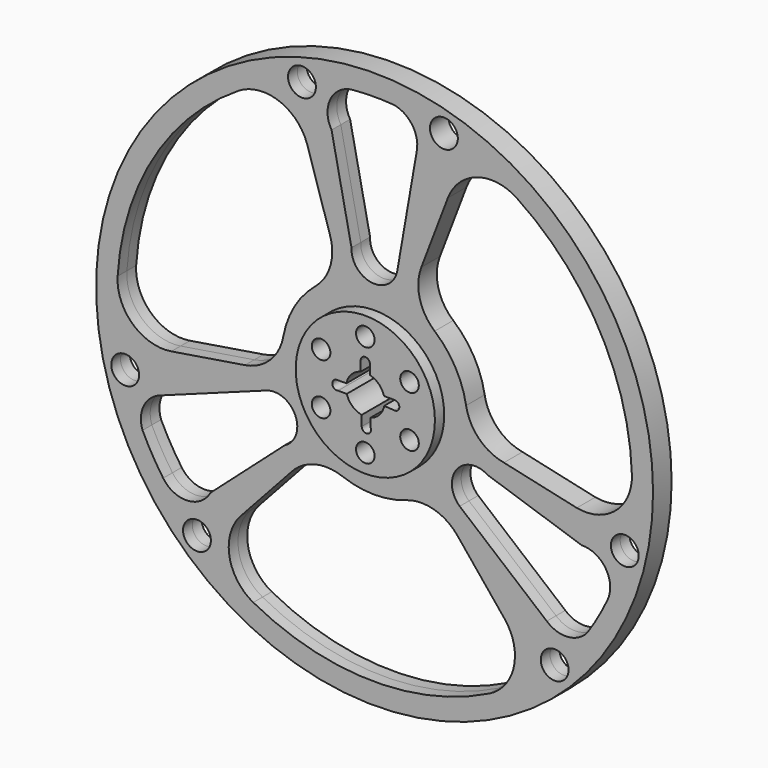
from build123d import *

# Parameters (mm, degrees)
F0_R     = 1524
F0_R_2   = 76.2
F0_R_3   = 381
F1_DEPTH = 63.5
F0_R_4   = 50.8
F2_DEPTH = 127


with BuildPart() as f1:
    # F0 (on Front) → F1 (new body, symmetric)
    with BuildSketch(Plane.XZ):
        Circle(F0_R)
        with Locations((-971.9933776367, -1020.0153691128)):
            Circle(F0_R_2, mode=Mode.SUBTRACT)
        with BuildLine():
            ThreePointArc((627.2636257807, -1261.6429063599), (-20.6483404541, -1408.8208280091), (-663.9687166949, -1242.7179980375))
            ThreePointArc((-663.9687166949, -1242.7179980375), (-794.0217747642, -1064.9655754631), (-736.2881159049, -852.4178248775))
            Line((-736.2881159049, -852.4178248775), (-460.4465800194, -551.4679926781))
            ThreePointArc((-460.4465800194, -551.4679926781), (-330.6800338441, -468.773031142), (-176.9821342696, -476.173628154))
            ThreePointArc((-176.9821342696, -476.173628154), (-3.192672788, -507.9899672636), (170.9829698774, -478.3605585872))
            ThreePointArc((170.9829698774, -478.3605585872), (324.7617483003, -472.8924257695), (453.4786230561, -557.2119331378))
            Line((453.4786230561, -557.2119331378), (711.1889353954, -873.8735220798))
            ThreePointArc((711.1889353954, -873.8735220798), (762.4369468714, -1087.9318904933), (627.2636257807, -1261.6429063599))
        make_face(mode=Mode.SUBTRACT)
        with BuildLine():
            ThreePointArc((-1156.9169838812, -804.2049314715), (-1217.2131465857, -709.6440200373), (-1269.7975677819, -610.5871078322))
            ThreePointArc((-1269.7975677819, -610.5871078322), (-1263.3217187599, -490.3673792442), (-1172.8817038419, -410.898369788))
            Line((-1172.8817038419, -410.898369788), (-589.6306123269, -197.2876431197))
            ThreePointArc((-589.6306123269, -197.2876431197), (-432.8022389089, -268.4085636592), (-492.2128557254, -430.036849107))
            Line((-492.2128557254, -430.036849107), (-898.1503483934, -790.4910748845))
            ThreePointArc((-898.1503483934, -790.4910748845), (-1023.7148413791, -869.4053728853), (-1156.9169838812, -804.2049314715))
        make_face(mode=Mode.SUBTRACT)
        with Locations((-1364.8229272882, -349.9440763096)):
            Circle(F0_R_2, mode=Mode.SUBTRACT)
        with Locations((985.4719236321, -1006.9992885442)):
            Circle(F0_R_2, mode=Mode.SUBTRACT)
        with BuildLine():
            ThreePointArc((1274.9203924436, -599.817032375), (1223.1763222889, -699.315496745), (1163.6827304969, -794.3833974468))
            ThreePointArc((1163.6827304969, -794.3833974468), (1056.3314669926, -848.8850119765), (942.289278531, -810.2961662671))
            Line((942.289278531, -810.2961662671), (465.6714169579, -411.9912675642))
            ThreePointArc((465.6714169579, -411.9912675642), (448.8497541766, -240.6134518803), (618.5292637528, -211.250412574))
            Line((618.5292637528, -211.250412574), (1133.6605265116, -382.5754806843))
            ThreePointArc((1133.6605265116, -382.5754806843), (1264.7845597949, -451.8603724228), (1274.9203924436, -599.817032375))
        make_face(mode=Mode.SUBTRACT)
        with Locations((1369.3559107206, -331.7632727872)):
            Circle(F0_R_2, mode=Mode.SUBTRACT)
        with BuildLine():
            ThreePointArc((-247.3620010235, 674.4924317215), (-240.629336656, 520.7638254043), (-323.8873914588, 391.3578383705))
            ThreePointArc((-323.8873914588, 391.3578383705), (-438.3358801239, 256.7599193722), (-499.7638808438, 91.1046837653))
            ThreePointArc((-499.7638808438, 91.1046837653), (-571.9177281238, -44.8057113207), (-709.2990009172, -114.1180410708))
            Line((-709.2990009172, -114.1180410708), (-1112.3911375134, -178.9709239029))
            ThreePointArc((-1112.3911375134, -178.9709239029), (-1323.3951281902, -116.3238195278), (-1406.2466203024, 87.595218384))
            ThreePointArc((-1406.2466203024, 87.595218384), (-1209.7504562095, 722.2924013838), (-744.2409976932, 1196.3727749947))
            ThreePointArc((-744.2409976932, 1196.3727749947), (-525.2763551248, 1220.1258158353), (-370.0714330301, 1063.853125317))
            Line((-370.0714330301, 1063.853125317), (-247.3620010235, 674.4924317215))
        make_face(mode=Mode.SUBTRACT)
        with BuildLine():
            ThreePointArc((-235.5101781182, 1173.0665555688), (-241.0697184158, 1321.2657453081), (-118.0034085625, 1404.0219638465))
            ThreePointArc((-118.0034085625, 1404.0219638465), (-5.9631757032, 1408.9595167823), (106.114837285, 1404.9705052789))
            ThreePointArc((106.114837285, 1404.9705052789), (206.9902517672, 1339.2523912208), (230.5924253109, 1221.1945360551))
            Line((230.5924253109, 1221.1945360551), (123.959195369, 609.2789106839))
            ThreePointArc((123.959195369, 609.2789106839), (-16.0475152677, 509.0220155395), (-126.3164080274, 641.287261681))
            Line((-126.3164080274, 641.287261681), (-235.5101781182, 1173.0665555688))
        make_face(mode=Mode.SUBTRACT)
        with BuildLine():
            ThreePointArc((-469.8615475431, 1328.3194666706), (-409.2371930413, 1427.0477089255), (-321.1625330839, 1351.7786419))
            ThreePointArc((-321.1625330839, 1351.7786419), (-385.4878731265, 1276.5095748744), (-469.8615475431, 1328.3194666706))
        make_face(mode=Mode.SUBTRACT)
        Circle(F0_R_3, mode=Mode.SUBTRACT)
        with BuildLine():
            ThreePointArc((778.9829945218, 1174.0476879759), (1230.3987966636, 686.5284266253), (1408.2097143881, 46.3452230428))
            ThreePointArc((1408.2097143881, 46.3452230428), (1319.298129889, -155.1602403722), (1106.359548935, -211.4353004395))
            Line((1106.359548935, -211.4353004395), (707.808581043, -123.0244390435))
            ThreePointArc((707.808581043, -123.0244390435), (571.3093705001, -51.9907942623), (500.8695257284, 84.8157897835))
            ThreePointArc((500.8695257284, 84.8157897835), (441.5285529119, 251.2300478914), (328.7809109663, 387.255874822))
            ThreePointArc((328.7809109663, 387.255874822), (247.1559798235, 517.6981370902), (255.8203778612, 671.3299742086))
            Line((255.8203778612, 671.3299742086), (401.202202118, 1052.8444459828))
            ThreePointArc((401.202202118, 1052.8444459828), (560.9581813188, 1204.2557100211), (778.9829945218, 1174.0476879759))
        make_face(mode=Mode.SUBTRACT)
        with Locations((379.3510036561, 1356.9433648539)):
            Circle(F0_R_2, mode=Mode.SUBTRACT)
    extrude(amount=F1_DEPTH, both=True)

    # F0 (on Front) → F2 (join, symmetric)
    with BuildSketch(Plane.XZ):
        Circle(F0_R_3)
        with Locations((-241.9674978174, -139.7)):
            Circle(F0_R_4, mode=Mode.SUBTRACT)
        with Locations((0, -279.4)):
            Circle(F0_R_4, mode=Mode.SUBTRACT)
        with BuildLine():
            ThreePointArc((-19.6858859664, -103.7105315785), (-71.1467502235, -77.9842830269), (-101.4740410098, -29.0934265381))
            Line((-101.4740410098, -29.0934265381), (-148.9367806707, -29.0934265381))
            ThreePointArc((-148.9367806707, -29.0934265381), (-180.3104402953, -7.5581578467), (-155.1009878748, 20.9472420718))
            Line((-155.1009878748, 20.9472420718), (-103.4631408579, 20.9472420718))
            ThreePointArc((-103.4631408579, 20.9472420718), (-76.2400737729, 73.0127359965), (-25.4, 102.4609606952))
            Line((-25.4, 102.4609606952), (-25.4, 156.3623439802))
            ThreePointArc((-25.4, 156.3623439802), (0.5573682923, 181.756227901), (25.3755386289, 155.2478758136))
            Line((25.3755386289, 155.2478758136), (25.3755386289, 102.4670215527))
            ThreePointArc((25.3755386289, 102.4670215527), (74.1732982628, 75.111452465), (102.1400046858, 26.6613561054))
            Line((102.1400046858, 26.6613561054), (160.8151019084, 26.6613561054))
            ThreePointArc((160.8151019084, 26.6613561054), (186.198871808, 0.3534873476), (159.0005246134, -24.0737442346))
            Line((159.0005246134, -24.0737442346), (103.6295355125, -20.1079048152))
            ThreePointArc((103.6295355125, -20.1079048152), (77.7768760071, -71.3734266038), (28.9157680339, -101.5248089168))
            Line((28.9157680339, -101.5248089168), (28.9157680339, -149.2172448646))
            ThreePointArc((28.9157680339, -149.2172448646), (10.9979567826, -184.3980812902), (-19.6858859664, -159.553745803))
            Line((-19.6858859664, -159.553745803), (-19.6858859664, -103.7105315785))
        make_face(mode=Mode.SUBTRACT)
        with Locations((241.9674978174, -139.7)):
            Circle(F0_R_4, mode=Mode.SUBTRACT)
        with Locations((-241.9674978174, 139.7)):
            Circle(F0_R_4, mode=Mode.SUBTRACT)
        with Locations((241.9674978174, 139.7)):
            Circle(F0_R_4, mode=Mode.SUBTRACT)
        with Locations((0, 279.4)):
            Circle(F0_R_4, mode=Mode.SUBTRACT)
    extrude(amount=F2_DEPTH, both=True)


solid = f1.part
